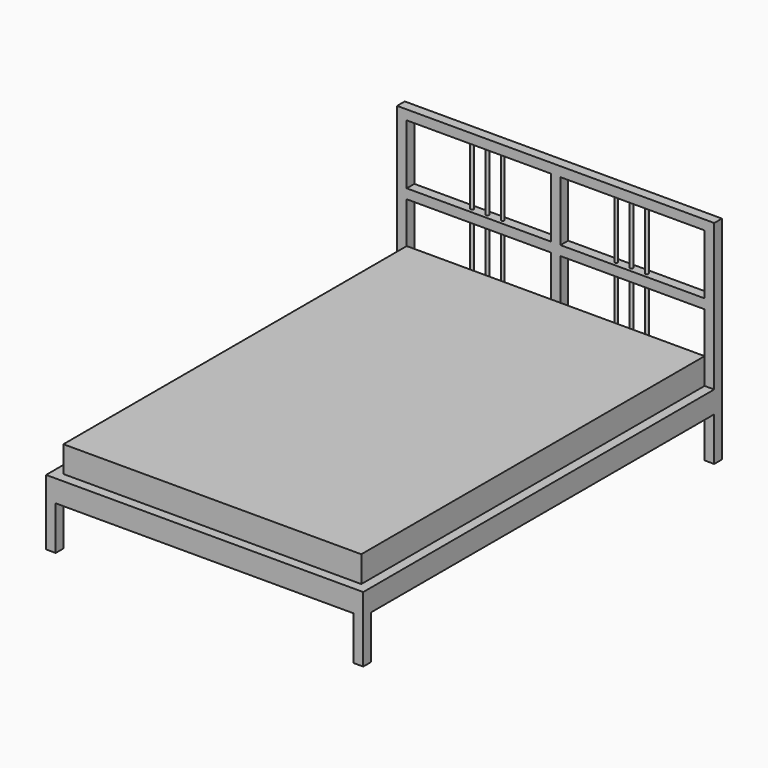
from build123d import *

# Parameters (mm, degrees)
F0_W     = 1450
F0_H     = 2050
F0_W_2   = 1362
F0_H_2   = 1962
F1_DEPTH = 100
F2_W     = 44
F2_H     = 44
F2_R     = 7
F3_DEPTH = 670
F4_W     = 44
F4_H     = 44
F5_DEPTH = 1362
F6_W     = 44
F6_H     = 44
F7_DEPTH = 200
F8_DEPTH = 220


with BuildPart() as f1:
    # F0 (on Top) → F1 (new body)
    with BuildSketch(Plane.XY):
        with Locations((725, -1025)):
            Rectangle(F0_W, F0_H)
        with Locations((725, -1025)):
            Rectangle(F0_W_2, F0_H_2, mode=Mode.SUBTRACT)
    extrude(amount=F1_DEPTH)

    # F2 (on face) → F3 (join)
    with BuildSketch(Plane.XY.offset(100)):
        with Locations((1428, -22)):
            Rectangle(F2_W, F2_H)
        with Locations((22, -22)):
            Rectangle(F2_W, F2_H)
        with Locations((725, -22)):
            Rectangle(F2_W, F2_H)
        with Locations((1054.461237, -22)):
            Circle(F2_R)
        with Locations((984.461237, -22)):
            Circle(F2_R)
        with Locations((1124.461237, -22)):
            Circle(F2_R)
        with Locations((465.538763, -22)):
            Circle(F2_R)
        with Locations((395.538763, -22)):
            Circle(F2_R)
        with Locations((325.538763, -22)):
            Circle(F2_R)
    extrude(amount=F3_DEPTH)

    # F4 (on face) → F5 (join, through all)
    with BuildSketch(Plane.YZ.offset(44)):
        with Locations((-22, 748)):
            Rectangle(F4_W, F4_H)
        with Locations((-22, 430.381075)):
            Rectangle(F4_W, F4_H)
    extrude(amount=F5_DEPTH)

    # F6 (on face) → F7 (join)
    with BuildSketch(Plane.XY):
        with Locations((22, -22)):
            Rectangle(F6_W, F6_H)
        with Locations((1428, -22)):
            Rectangle(F6_W, F6_H)
        with Locations((1428, -2028)):
            Rectangle(F6_W, F6_H)
        with Locations((22, -2028)):
            Rectangle(F6_W, F6_H)
    extrude(amount=-F7_DEPTH)


with BuildPart() as f8:
    # F0 (on Top) → F8 (new body)
    with BuildSketch(Plane.XY):
        with Locations((725, -1025)):
            Rectangle(F0_W_2, F0_H_2)
    extrude(amount=F8_DEPTH)


solid = Compound([f1.part, f8.part])
